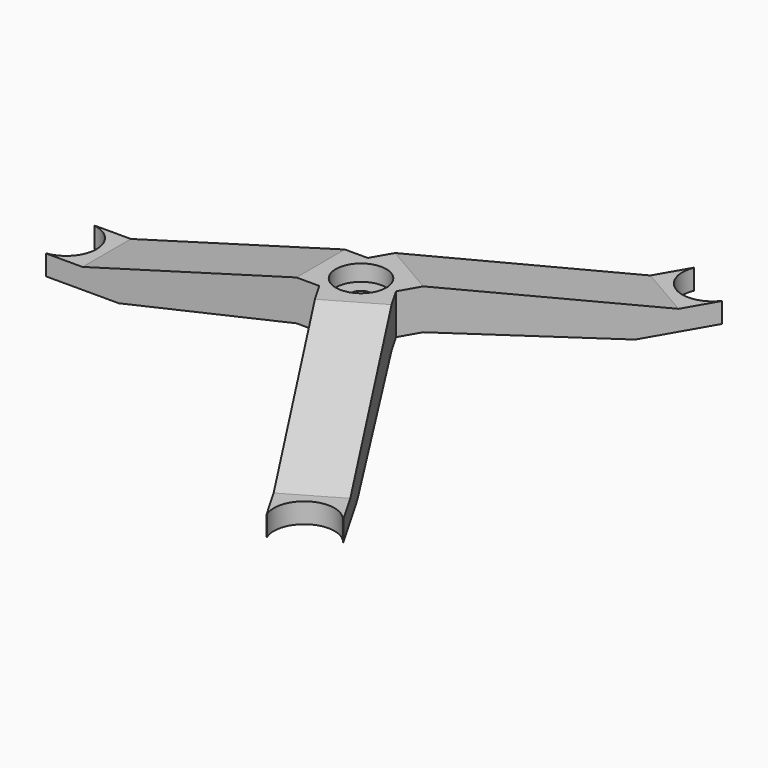
from build123d import *

# Parameters (mm, degrees)
F1_DEPTH  = 9.525
F3_DEPTH  = 6.351
F0_W      = 12.7
F0_H      = 12.7
F4_DEPTH  = 9.525
F6_DEPTH  = 5.08
F8_DEPTH  = 25.4
F10_COUNT = 3


with BuildPart() as f1:
    # F0 (on Front) → F1 (new body, symmetric)
    with BuildSketch(Plane.XZ):
        Polygon((-91.44, 0), (-68.58, 0), (-68.58, 6.35), (-80.01, 6.35), (-91.44, 6.35), align=None)
        Polygon((-68.58, 6.35), (-68.58, 0), (-12.7, 12.621443), (-12.7, 25.321443), (-80.01, 6.35), align=None)
    extrude(amount=F1_DEPTH, both=True)

    # F2 (on face) → F3 (cut, through all)
    with BuildSketch(Plane.XY.offset(6.35)):
        with BuildLine():
            Line((-91.44, 9.439954), (-91.44, -9.439954))
            ThreePointArc((-91.44, -9.439954), (-83.185, 0), (-91.44, 9.439954))
        make_face()
    extrude(amount=-F3_DEPTH, mode=Mode.SUBTRACT)

    # F0 (on Front) → F4 (join, symmetric)
    with BuildSketch(Plane.XZ):
        with Locations((-6.35, 18.971443)):
            Rectangle(F0_W, F0_H)
    extrude(amount=F4_DEPTH, both=True)

    # F5 (on face) → F6 (cut)
    with BuildSketch(Plane.XY.offset(25.321443)):
        with BuildLine():
            Line((0, -7.9375), (0, 7.9375))
            ThreePointArc((0, 7.9375), (-7.9375, 0), (0, -7.9375))
        make_face()
    extrude(amount=-F6_DEPTH, mode=Mode.SUBTRACT)

    # F7 (on face) → F8 (cut)
    with BuildSketch(Plane.XY.offset(20.241443)):
        with BuildLine():
            Line((0, -3.175), (0, 3.175))
            ThreePointArc((0, 3.175), (-3.175, 0), (0, -3.175))
        make_face()
    extrude(amount=-F8_DEPTH, mode=Mode.SUBTRACT)

    # F10: F1 ×3 about axis
    f10_axis = Axis((0, 0, 19.108918), (0, 0, 1))


with BuildPart() as f1_1:
    add(f1.part)
    for i in range(1, F10_COUNT):
        add(f1.part.rotate(f10_axis, i * 360 / F10_COUNT))


solid = f1_1.part
